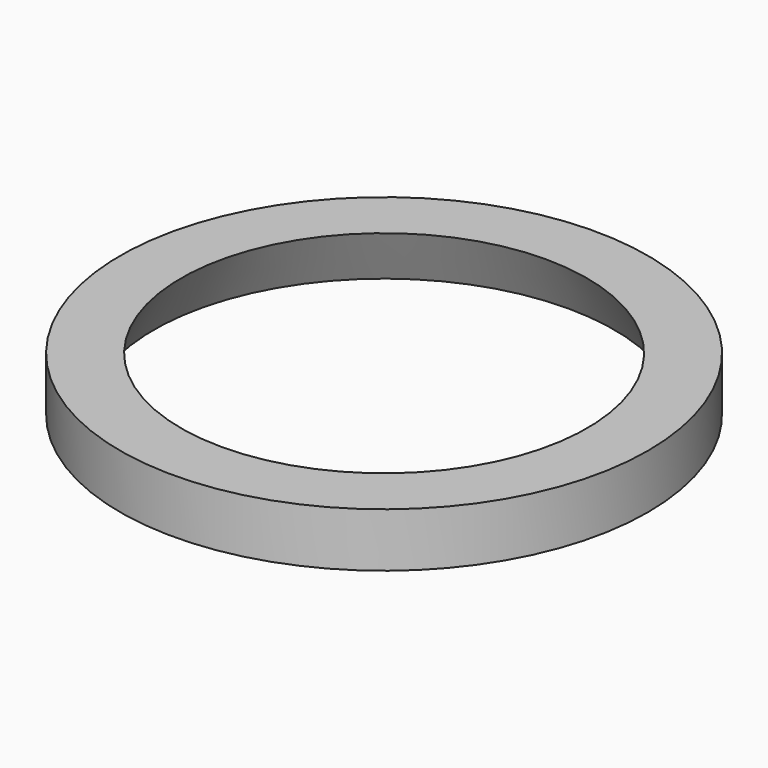
from build123d import *

# Parameters (mm, degrees)
F0_R     = 39
F0_R_2   = 30
F1_DEPTH = 8


with BuildPart() as f1:
    # F0 (on Top) → F1 (new body)
    with BuildSketch(Plane.XY):
        Circle(F0_R)
        Circle(F0_R_2, mode=Mode.SUBTRACT)
    extrude(amount=F1_DEPTH)

    # F2 (on Right) → F3 (revolve, cut)
    with BuildSketch(Plane.YZ):
        Polygon((-34, 0), (-30, 0), (-30, 8), align=None)
    revolve(axis=Axis((0, 0, 0), (0, 0, -1)), mode=Mode.SUBTRACT)


solid = f1.part
